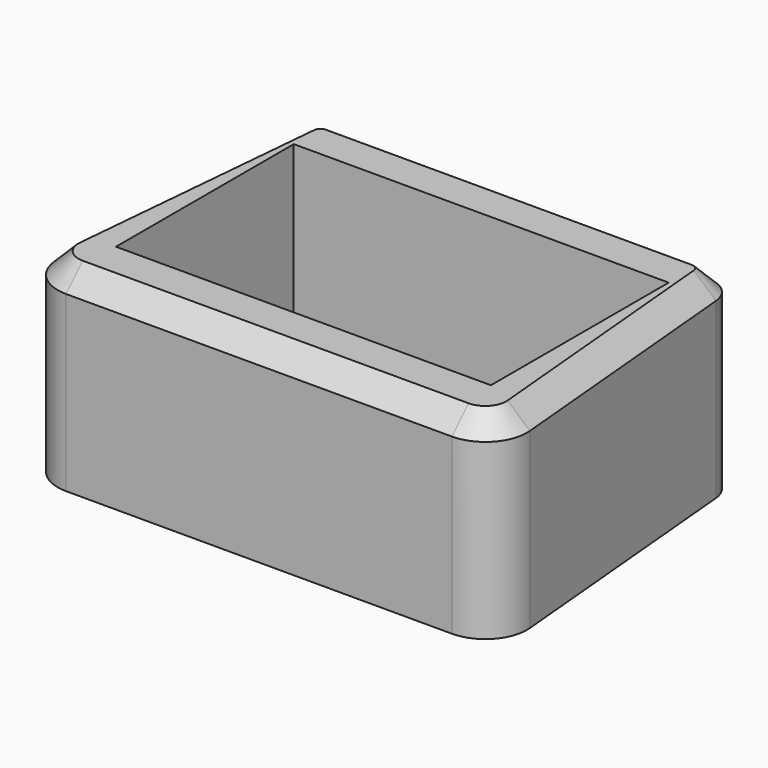
from build123d import *

# Parameters (mm, degrees)
F0_W     = 13.5
F0_H     = 8
F1_DEPTH = 7
F2_SIZE  = 0.75


with BuildPart() as f1:
    # F0 (on Top) → F1 (new body)
    with BuildSketch(Plane.XY):
        with BuildLine():
            Line((-6.94836, -6), (6.94836, -6))
            ThreePointArc((6.94836, -6), (8.055994, -5.511507), (8.4422, -4.364196))
            Line((8.4422, -4.364196), (7.582679, 5.090536))
            ThreePointArc((7.582679, 5.090536), (7.261124, 5.738423), (6.586785, 6))
            Line((6.586785, 6), (-6.586785, 6))
            ThreePointArc((-6.586785, 6), (-7.261124, 5.738423), (-7.582679, 5.090536))
            Line((-7.582679, 5.090536), (-8.4422, -4.364196))
            ThreePointArc((-8.4422, -4.364196), (-8.055994, -5.511507), (-6.94836, -6))
        make_face()
        Rectangle(F0_W, F0_H, mode=Mode.SUBTRACT)
    extrude(amount=F1_DEPTH)

    # F2
    f2_edges = [f1.edges().sort_by_distance(p)[0] for p in [
        (0, 6, 7),
    ]]
    chamfer(f2_edges, length=F2_SIZE)


solid = f1.part
